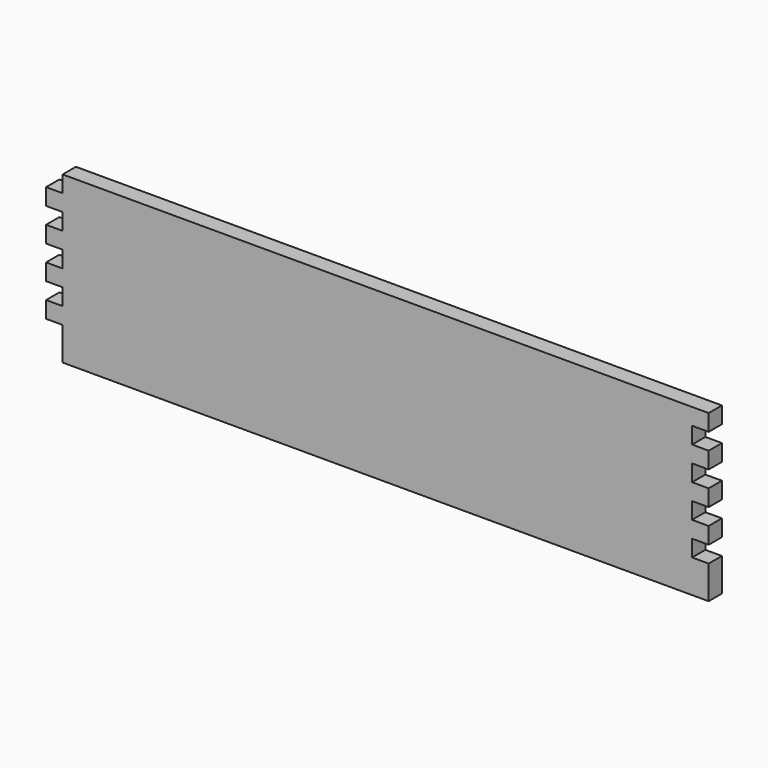
from build123d import *

# Parameters (mm, degrees)
F1_DEPTH = 5


with BuildPart() as f1:
    # F0 (on Front) → F1 (new body)
    with BuildSketch(Plane.XZ):
        Polygon((100, 25.01961), (0, 25.01961), (-94.999997, 25.01961), (-94.999997, 20.019609), (-100, 20.019609), (-100, 15.019609), (-94.999997, 15.019609), (-94.999997, 10.019609), (-100, 10.019609), (-100, 5.019609), (-94.999997, 5.019609), (-94.999997, 0.019609), (-100, 0.019609), (-100, -4.980391), (-94.999997, -4.980391), (-94.999997, -9.980391), (-100, -9.980391), (-100, -14.980391), (-94.999997, -14.980391), (-94.999997, -24.98039), (0, -24.98039), (100, -24.98039), (100, -14.980391), (94.999997, -14.980391), (94.999997, -9.980391), (100, -9.980391), (100, -4.980391), (94.999997, -4.980391), (94.999997, 0.019609), (100, 0.019609), (100, 5.019609), (94.999997, 5.019609), (94.999997, 10.019609), (100, 10.019609), (100, 15.019609), (94.999997, 15.019609), (94.999997, 20.019609), (100, 20.019609), align=None)
    extrude(amount=-F1_DEPTH)


solid = f1.part
